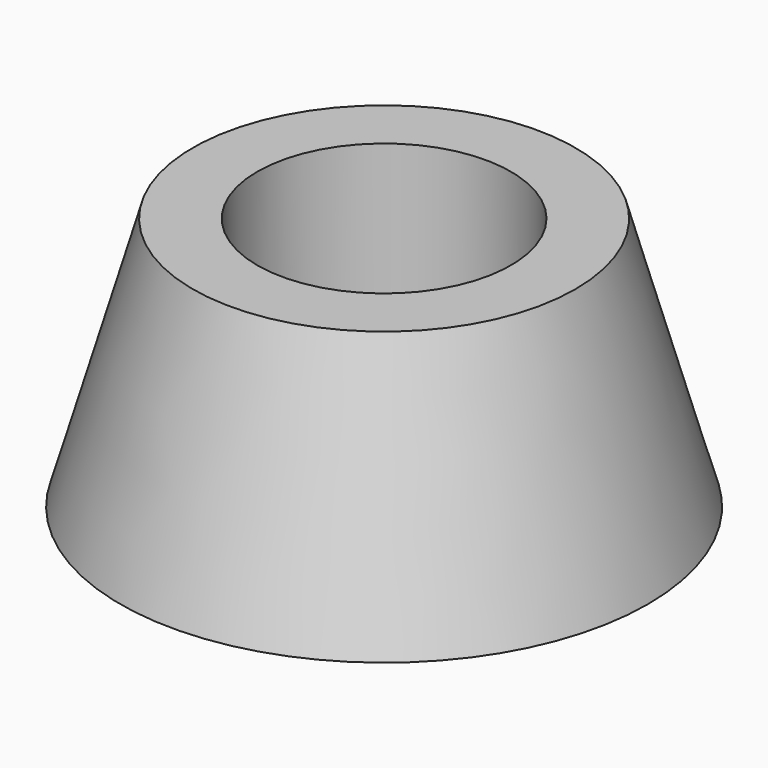
from build123d import *

# Parameters (mm, degrees)
F0_R = 33.039446
F2_R = 23.953643
F5_D = 31.75


with BuildPart() as f3:
    # F0 (on Top) → F3 section 0
    with BuildSketch(Plane.XY):
        Circle(F0_R)
    # F2 (on offset) → F3 section 1
    with BuildSketch(Plane.XY.offset(31.75)):
        Circle(F2_R)
    loft()

    # F5 (through all)
    with Locations(Plane.XY.offset(31.75)):
        with Locations((0, 0)):
            Hole(F5_D / 2)


solid = f3.part
